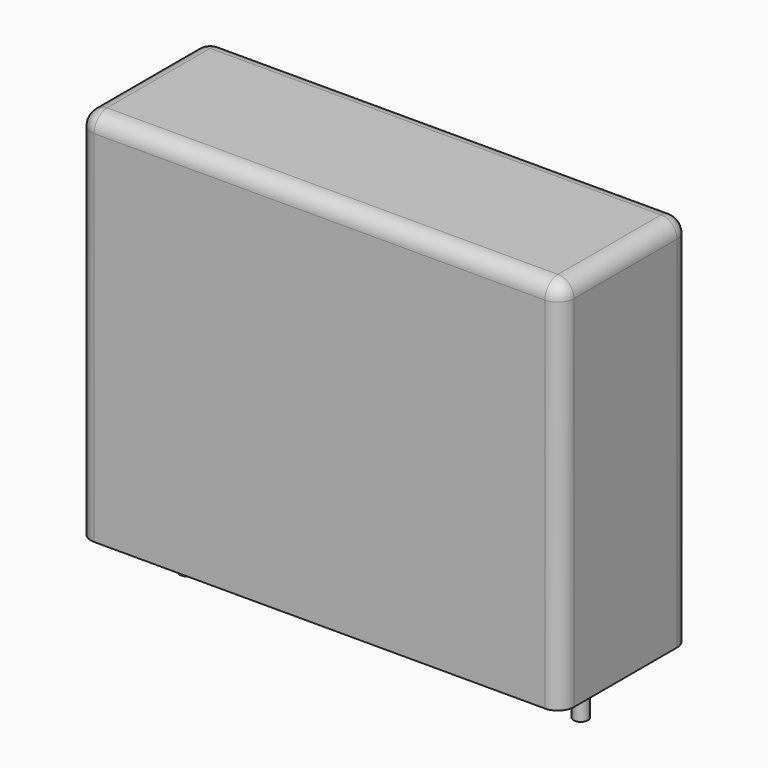
from build123d import *

# Parameters (mm, degrees)
SKETCH_W     = 27
SKETCH_H     = 9
PAD_DEPTH    = 21
FILLET_R     = 0.9
SKETCH001_R  = 0.4
PAD001_DEPTH = 3.2


with BuildPart() as fillet_body:
    # Sketch → Pad (new body)
    with BuildSketch(Plane.XY.offset(0.1)):
        with Locations((11, 0)):
            Rectangle(SKETCH_W, SKETCH_H)
    extrude(amount=PAD_DEPTH)

    # Fillet
    fillet_edges = [fillet_body.edges().sort_by_distance(p)[0] for p in [
        (-2.5, 0, 21.1),
        (-2.5, -4.5, 10.6),
        (11, -4.5, 21.1),
        (24.5, -4.5, 10.6),
        (24.5, 0, 21.1),
        (24.5, 4.5, 10.6),
        (11, 4.5, 21.1),
        (-2.5, 4.5, 10.6),
    ]]
    fillet(fillet_edges, radius=FILLET_R)


with BuildPart() as pad001:
    # Sketch001 → Pad001 (new body)
    with BuildSketch(Plane.XY.offset(0.5)):
        Circle(SKETCH001_R)
        with Locations((22, 0)):
            Circle(SKETCH001_R)
    extrude(amount=-PAD001_DEPTH)


solid = Compound([fillet_body.part, pad001.part])
